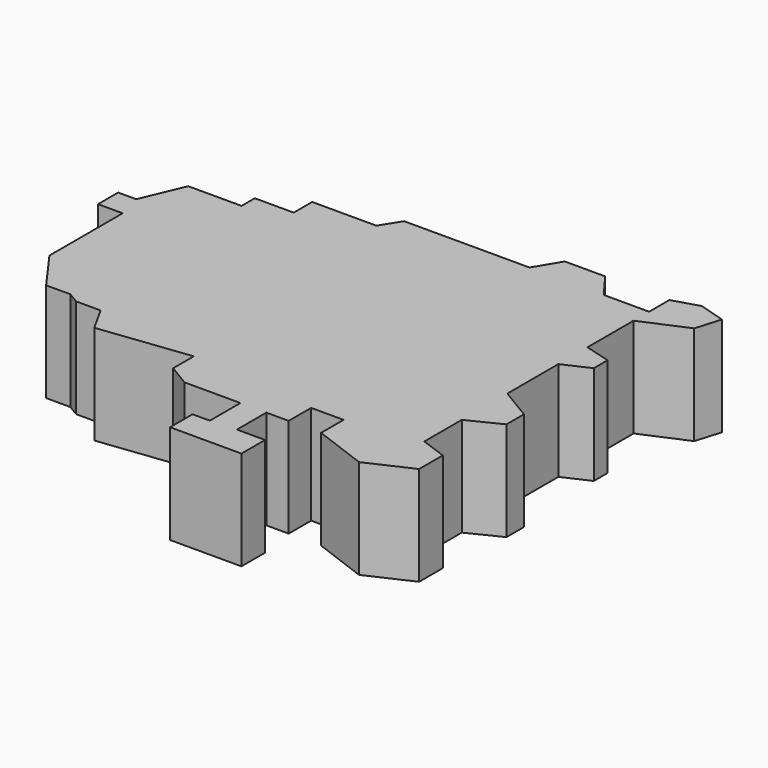
from build123d import *

# Parameters (mm, degrees)
F1_DEPTH = 25.4


with BuildPart() as f1:
    # F0 (on Top) → F1 (new body)
    with BuildSketch(Plane.XY):
        Polygon((-61.666694, -3.410565), (-55.360642, -3.410565), (-55.360642, -26.823629), (-52.448954, -30.879436), (-47.840081, -37.299322), (-41.626241, -37.299322), (-38.806695, -38.991049), (-32.53863, -38.991049), (-28.851533, -45.627825), (-5.598422, -42.862501), (-5.598422, -49.458609), (0, -52.817661), (14.2875, -52.817661), (14.2875, -62.588468), (9.862985, -62.588468), (9.862985, -69.778308), (28.114116, -69.778308), (28.114116, -62.219758), (20.924276, -62.219758), (20.924276, -52.817661), (26.639272, -52.817661), (26.639272, -45.627825), (34.93524, -45.627825), (34.93524, -52.817661), (48.761852, -57.979599), (60.007501, -52.817661), (60.007501, -45.259114), (53.370729, -42.862501), (53.370729, -30.879436), (61.558252, -26.823629), (61.558252, -21.227917), (53.370729, -16.315404), (53.370729, 0), (60.007501, 3.041855), (60.007501, 7.466371), (53.370729, 9.30992), (53.370729, 24.058307), (64.910345, 29.035889), (66.828631, 35.488307), (60.007501, 37.51621), (53.370729, 35.488307), (53.370729, 29.035889), (41.756369, 29.035889), (36.963142, 35.488307), (26.639272, 35.488307), (22.767821, 29.035889), (-9.30992, 29.035889), (-12.443951, 24.058307), (-28.851533, 24.058307), (-28.851533, 18.158952), (-38.806695, 18.158952), (-38.806695, 13.91879), (-52.448954, 13.91879), (-57.057824, 3.041855), (-61.666694, 3.041855), (-61.666694, 0), align=None)
    extrude(amount=F1_DEPTH)


solid = f1.part
